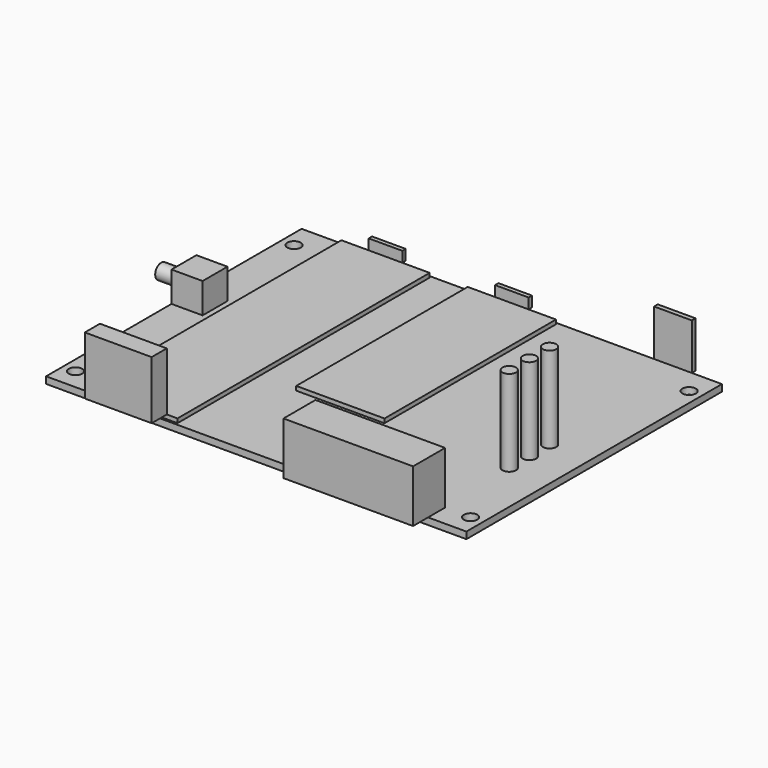
from build123d import *

# Parameters (mm, degrees)
SKETCH_W     = 100
SKETCH_H     = 76
SKETCH_R     = 1.6
PAD_DEPTH    = 1.6
SKETCH001_W  = 21
SKETCH001_H  = 75
PAD001_DEPTH = 1
SKETCH002_W  = 15.9
SKETCH002_H  = 4.5
PAD002_DEPTH = 13.85
SKETCH003_W  = 8
SKETCH003_H  = 1
PAD003_DEPTH = 2.5
SKETCH004_W  = 30.84
SKETCH004_H  = 9.52
PAD004_DEPTH = 12.5
SKETCH005_W  = 21
SKETCH005_H  = 51
PAD005_DEPTH = 1
SKETCH006_W  = 8
SKETCH006_H  = 1
PAD006_DEPTH = 2.5
SKETCH007_W  = 9
SKETCH007_H  = 1.1
PAD007_DEPTH = 11
SKETCH008_W  = 7.4
SKETCH008_H  = 7.4
PAD008_DEPTH = 7.2
SKETCH009_R  = 1.8
PAD009_DEPTH = 5.4
SKETCH010_R  = 1.6
PAD010_DEPTH = 20.5


with BuildPart() as part:
    # Sketch → Pad (new body)
    with BuildSketch(Plane.XY):
        Rectangle(SKETCH_W, SKETCH_H)
        with Locations((-47, 32)):
            Circle(SKETCH_R, mode=Mode.SUBTRACT)
        with Locations((47, 32)):
            Circle(SKETCH_R, mode=Mode.SUBTRACT)
        with Locations((-47, -33)):
            Circle(SKETCH_R, mode=Mode.SUBTRACT)
        with Locations((47, -33)):
            Circle(SKETCH_R, mode=Mode.SUBTRACT)
    extrude(amount=PAD_DEPTH)

    # Sketch001 → Pad001 (join)
    with BuildSketch(Plane.XY.offset(1.6)):
        with Locations((-29.65, 0.02)):
            Rectangle(SKETCH001_W, SKETCH001_H)
    extrude(amount=PAD001_DEPTH)

    # Sketch002 → Pad002 (join)
    with BuildSketch(Plane.XY.offset(2.59)):
        with Locations((-29.65, -39.73)):
            Rectangle(SKETCH002_W, SKETCH002_H)
    extrude(amount=PAD002_DEPTH)

    # Sketch003 → Pad003 (join)
    with BuildSketch(Plane.XY.offset(2.599)):
        with Locations((-29.65, 38.02)):
            Rectangle(SKETCH003_W, SKETCH003_H)
    extrude(amount=PAD003_DEPTH)

    # Sketch004 → Pad004 (join)
    with BuildSketch(Plane.XY.offset(1.6)):
        with Locations((25.46, -37.69)):
            Rectangle(SKETCH004_W, SKETCH004_H)
    extrude(amount=PAD004_DEPTH)

    # Sketch005 → Pad005 (join)
    with BuildSketch(Plane.XY.offset(1.6)):
        with Locations((0.4, 12.02)):
            Rectangle(SKETCH005_W, SKETCH005_H)
    extrude(amount=PAD005_DEPTH)

    # Sketch006 → Pad006 (join)
    with BuildSketch(Plane.XY.offset(2.599)):
        with Locations((0.4, 38.02)):
            Rectangle(SKETCH006_W, SKETCH006_H)
    extrude(amount=PAD006_DEPTH)

    # Sketch007 → Pad007 (join)
    with BuildSketch(Plane.XY.offset(1.599)):
        with Locations((38.35, 38.55)):
            Rectangle(SKETCH007_W, SKETCH007_H)
    extrude(amount=PAD007_DEPTH)

    # Sketch008 → Pad008 (join)
    with BuildSketch(Plane.XY.offset(1.6)):
        with Locations((-46.3, 3)):
            Rectangle(SKETCH008_W, SKETCH008_H)
    extrude(amount=PAD008_DEPTH)

    # Sketch009 → Pad009 (join)
    with BuildSketch(Plane.YZ.offset(-50)):
        with Locations((3, 5.2)):
            Circle(SKETCH009_R)
    extrude(amount=-PAD009_DEPTH)

    # Sketch010 → Pad010 (join)
    with BuildSketch(Plane.XY.offset(1.6)):
        with Locations((40.2, -1)):
            Circle(SKETCH010_R)
        with Locations((40.2, -7)):
            Circle(SKETCH010_R)
        with Locations((40.2, -13)):
            Circle(SKETCH010_R)
    extrude(amount=PAD010_DEPTH)


solid = part.part
